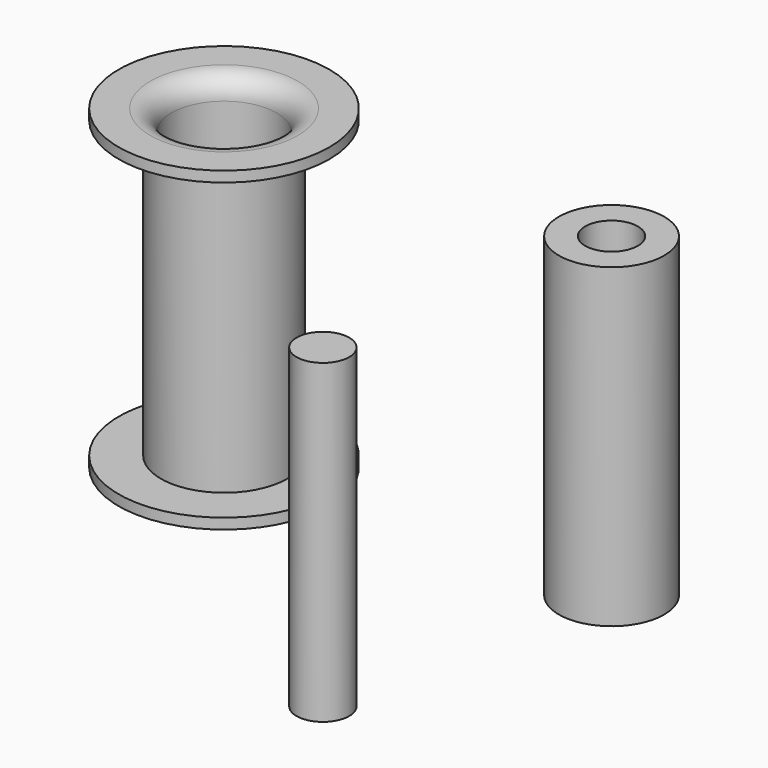
from build123d import *

# Parameters (mm, degrees)
F0_R     = 25.4
F0_R_2   = 12.7
F1_DEPTH = 76.2
F0_R_3   = 6.35
F2_R     = 5.08
F3_T     = -2.54


with BuildPart() as f1:
    # F0 (on Top) → F1 (new body)
    with BuildSketch(Plane.XY):
        with Locations((-51.9489385188, 27.1976441145)):
            Circle(F0_R)
        with Locations((-51.9489385188, 27.1976441145)):
            Circle(F0_R_2, mode=Mode.SUBTRACT)
    extrude(amount=F1_DEPTH)

    # F2
    f2_edges = [f1.edges().sort_by_distance(p)[0] for p in [
        (-64.648939, 27.197644, 76.2),
    ]]
    fillet(f2_edges, radius=F2_R)

    # F3
    f3_openings = [f1.faces().sort_by_distance(p)[0] for p in [
        (-77.348939, 27.197644, 38.1),
    ]]
    offset(amount=F3_T, openings=f3_openings)


with BuildPart() as f1b:
    # F0 (on Top) → F1, piece 2 (new body)
    with BuildSketch(Plane.XY):
        with Locations((37.5586524606, 32.0903435349)):
            Circle(F0_R_2)
        with Locations((37.5586524606, 32.0903435349)):
            Circle(F0_R_3, mode=Mode.SUBTRACT)
    extrude(amount=F1_DEPTH)


with BuildPart() as f1c:
    # F0 (on Top) → F1, piece 3 (new body)
    with BuildSketch(Plane.XY):
        with Locations((23.4561674297, -37.270847708)):
            Circle(F0_R_3)
    extrude(amount=F1_DEPTH)


solid = Compound([f1.part, f1b.part, f1c.part])
